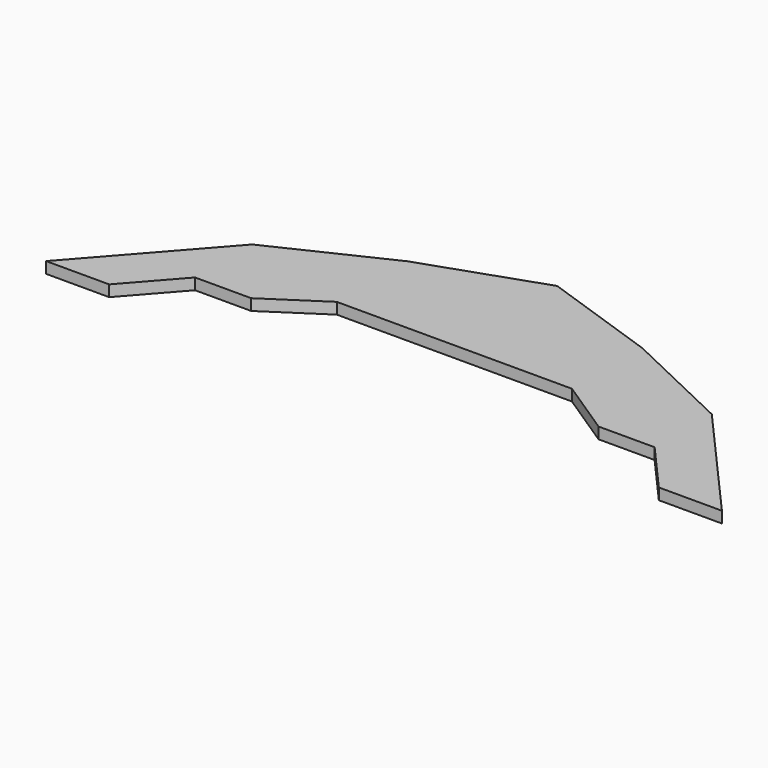
from build123d import *

# Parameters (mm, degrees)
F1_DEPTH = 25
F3_DEPTH = 25
F4_W     = 200
F4_H     = 100
F5_DEPTH = 25


with BuildPart() as f1:
    # F0 (on Top) → F1 (new body)
    with BuildSketch(Plane.XY):
        Polygon((-510, 271.8948125839), (-750, 0), (0, 0), (0, 271.8948125839), align=None)
        Polygon((-261, 390.4831971128), (-510, 271.8948125839), (0, 271.8948125839), (0, 390.4831971128), align=None)
        Polygon((0, 480.4831971128), (-261, 390.4831971128), (0, 390.4831971128), align=None)
        Polygon((0, 480.4831971128), (0, 390.4831971128), (261, 390.4831971128), align=None)
        Polygon((0, 390.4831971128), (0, 271.8948125839), (510, 271.8948125839), (261, 390.4831971128), align=None)
        Polygon((0, 271.8948125839), (0, 0), (750, 0), (510, 271.8948125839), align=None)
    extrude(amount=F1_DEPTH)

    # F2 (on face) → F3 (cut)
    with BuildSketch(Plane(origin=(0, 0, 0), x_dir=(1, 0, 0), z_dir=(0, 0, -1))):
        Polygon((610, 0), (-610, 0), (-510, -113.2895052433), (-385.5, -113.2895052433), (-261, -195.2415985564), (261, -195.2415985564), (385.5, -113.2895052433), (510, -113.2895052433), align=None)
    extrude(amount=-F3_DEPTH, mode=Mode.SUBTRACT)


with BuildPart() as f5:
    # F4 (on face) → F5 (new body)
    with BuildSketch(Plane.XY.offset(25)):
        with Locations((0, 145.2415985564)):
            Rectangle(F4_W, F4_H)
    extrude(amount=-F5_DEPTH)


solid = f1.part
